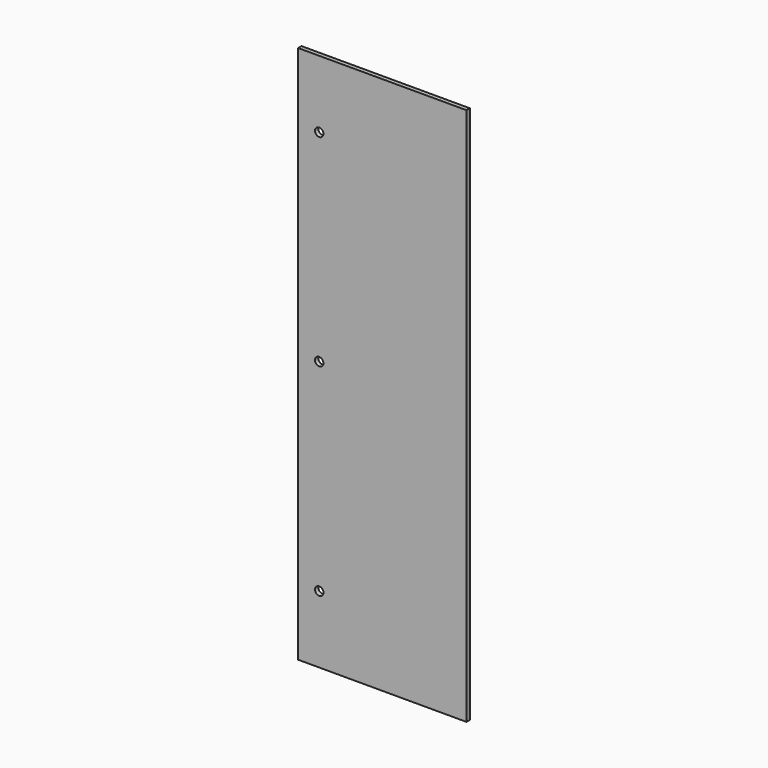
from build123d import *

# Parameters (mm, degrees)
F0_W     = 127
F0_H     = 406.4
F1_DEPTH = 3.175
F3_D     = 6.35


with BuildPart() as f1:
    # F0 (on Front) → F1 (new body)
    with BuildSketch(Plane.XZ):
        with Locations((-3.256431, 233.88628)):
            Rectangle(F0_W, F0_H)
    extrude(amount=F1_DEPTH)

    # F3 (through all)
    with Locations(Plane.XZ.offset(3.175)):
        with Locations((-50.881431, 81.48628), (-50.881431, 233.88628), (-50.881431, 386.28628)):
            Hole(F3_D / 2)


solid = f1.part
